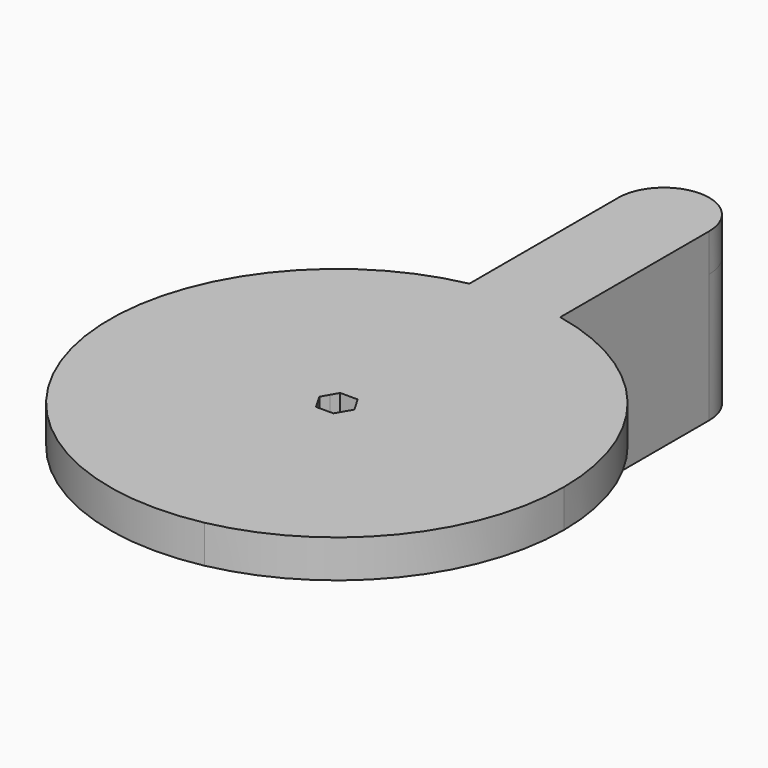
from build123d import *

# Parameters (mm, degrees)
F0_R     = 1.5
F1_DEPTH = 2.5
F2_DEPTH = 8.5
F3_DEPTH = 1


with BuildPart() as f1:
    # F0 (on Top) → F1 (new body)
    with BuildSketch(Plane.XY):
        with BuildLine():
            Line((-3, -14.6969384567), (-3, 14.6969384567))
            ThreePointArc((-3, 14.6969384567), (-15, 0), (-3, -14.6969384567))
        make_face()
        with BuildLine():
            Line((3, -14.6969384567), (3, 14.6969384567))
            ThreePointArc((3, 14.6969384567), (0, 15), (-3, 14.6969384567))
            Line((-3, 14.6969384567), (-3, -14.6969384567))
            ThreePointArc((-3, -14.6969384567), (0, -15), (3, -14.6969384567))
        make_face()
        Circle(F0_R, mode=Mode.SUBTRACT)
        with BuildLine():
            ThreePointArc((3, -14.6969384567), (11.6189500386, -9.4868329805), (15, 0))
            ThreePointArc((15, 0), (11.6189500386, 9.4868329805), (3, 14.6969384567))
            Line((3, 14.6969384567), (3, -14.6969384567))
        make_face()
        with BuildLine():
            ThreePointArc((-3, 14.6969384567), (0, 15), (3, 14.6969384567))
            Line((3, 14.6969384567), (3, 27))
            ThreePointArc((3, 27), (2.1213203436, 29.1213203436), (0, 30))
            ThreePointArc((0, 30), (-2.1213203436, 29.1213203436), (-3, 27))
            Line((-3, 27), (-3, 14.6969384567))
        make_face()
        Circle(F0_R)
        Polygon((0.5773502692, 1), (0.8660253864, 0.5000000301), (1.1547005384, 0), (0.8660253864, -0.5000000301), (0.5773502692, -1), (0, -1), (-0.5773502692, -1), (-0.8660253838, -0.5000000347), (-1.1547005384, 0), (-0.866025389, 0.5000000256), (-0.5773502692, 1), (0, 1), align=None, mode=Mode.SUBTRACT)
    extrude(amount=F1_DEPTH)

    # F0 (on Top) → F2 (join)
    with BuildSketch(Plane.XY):
        with BuildLine():
            ThreePointArc((-3, 14.6969384567), (0, 15), (3, 14.6969384567))
            Line((3, 14.6969384567), (3, 27))
            ThreePointArc((3, 27), (2.1213203436, 29.1213203436), (0, 30))
            ThreePointArc((0, 30), (-2.1213203436, 29.1213203436), (-3, 27))
            Line((-3, 27), (-3, 14.6969384567))
        make_face()
    extrude(amount=-F2_DEPTH)

    # F0 (on Top) → F3 (join)
    with BuildSketch(Plane.XY):
        Circle(F0_R)
        Polygon((0.5773502692, 1), (0.8660253864, 0.5000000301), (1.1547005384, 0), (0.8660253864, -0.5000000301), (0.5773502692, -1), (0, -1), (-0.5773502692, -1), (-0.8660253838, -0.5000000347), (-1.1547005384, 0), (-0.866025389, 0.5000000256), (-0.5773502692, 1), (0, 1), align=None, mode=Mode.SUBTRACT)
    extrude(amount=-F3_DEPTH)


solid = f1.part
